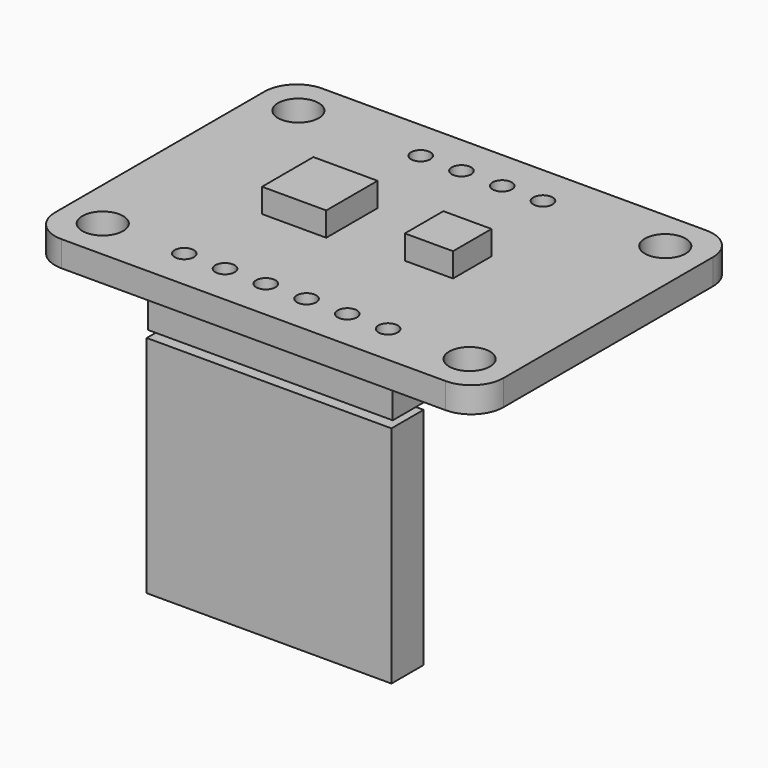
from build123d import *

# Parameters (mm, degrees)
PAD_DEPTH            = 1.6
SKETCH001_R          = 1.27
POCKET_DEPTH         = 0.001
POCKET_DEPTH_BACK    = 1.601
SKETCH005_R          = 0.6
POCKET003_DEPTH      = 1.601
POCKET003_DEPTH_BACK = -0.001
SKETCH006_W          = 4
SKETCH006_H          = 4
PAD002_DEPTH         = 1.5
SKETCH009_W          = 15.25
SKETCH009_H          = 2.5
PAD005_DEPTH         = 2.5
SKETCH010_W          = 13.25
SKETCH010_H          = 0.6
PAD006_DEPTH         = 8.5
SKETCH011_W          = 1.9
SKETCH011_H          = 15
POCKET004_DEPTH      = 0.301
POCKET004_DEPTH_BACK = -0.301
SKETCH012_W          = 15.25
SKETCH012_H          = 2.5
PAD007_DEPTH         = 14
SKETCH013_W          = 3
SKETCH013_H          = 3
PAD008_DEPTH         = 1.5


with BuildPart() as mainboard:
    # Sketch → Pad (new body)
    with BuildSketch(Plane.XY):
        with BuildLine():
            Line((-11.97, 10.16), (11.97, 10.16))
            ThreePointArc((13.97, 8.16), (13.384214, 9.574214), (11.97, 10.16))
            Line((13.97, 8.16), (13.97, -8.16))
            ThreePointArc((11.97, -10.16), (13.384214, -9.574214), (13.97, -8.16))
            Line((11.97, -10.16), (-11.97, -10.16))
            ThreePointArc((-13.97, -8.16), (-13.384214, -9.574214), (-11.97, -10.16))
            Line((-13.97, -8.16), (-13.97, 8.16))
            ThreePointArc((-11.97, 10.16), (-13.384214, 9.574214), (-13.97, 8.16))
        make_face()
    extrude(amount=-PAD_DEPTH)

    # Sketch001 → Pocket (cut, two sides)
    with BuildSketch(Plane.XY) as pocket_sk:
        with Locations((-11.43, 7.62)):
            Circle(SKETCH001_R)
        with Locations((11.43, 7.62)):
            Circle(SKETCH001_R)
        with Locations((11.43, -7.62)):
            Circle(SKETCH001_R)
        with Locations((-11.43, -7.62)):
            Circle(SKETCH001_R)
    extrude(amount=POCKET_DEPTH, mode=Mode.SUBTRACT)
    extrude(pocket_sk.sketch, amount=-POCKET_DEPTH_BACK, mode=Mode.SUBTRACT)

    # Sketch005 → Pocket003 (cut, two sides)
    with BuildSketch(Plane.XY) as pocket003_sk:
        with Locations((-3.81, 7.62)):
            Circle(SKETCH005_R)
        with Locations((-1.27, 7.62)):
            Circle(SKETCH005_R)
        with Locations((1.27, 7.62)):
            Circle(SKETCH005_R)
        with Locations((3.81, 7.62)):
            Circle(SKETCH005_R)
        with Locations((-6.35, -7.62)):
            Circle(SKETCH005_R)
        with Locations((-3.81, -7.62)):
            Circle(SKETCH005_R)
        with Locations((-1.27, -7.62)):
            Circle(SKETCH005_R)
        with Locations((1.27, -7.62)):
            Circle(SKETCH005_R)
        with Locations((3.81, -7.62)):
            Circle(SKETCH005_R)
        with Locations((6.35, -7.62)):
            Circle(SKETCH005_R)
    extrude(amount=-POCKET003_DEPTH, mode=Mode.SUBTRACT)
    extrude(pocket003_sk.sketch, amount=-POCKET003_DEPTH_BACK, mode=Mode.SUBTRACT)


with BuildPart() as chip1:
    # Sketch006 → Pad002 (new body)
    with BuildSketch(Plane.XY):
        with Locations((-4, 0)):
            Rectangle(SKETCH006_W, SKETCH006_H)
    extrude(amount=PAD002_DEPTH)


with BuildPart() as pinblock1:
    # Sketch009 → Pad005 (new body)
    with BuildSketch(Plane.XY):
        Rectangle(SKETCH009_W, SKETCH009_H)
    extrude(amount=-PAD005_DEPTH)


with BuildPart() as pinblock1_1:
    # Body005 placement: moved
    add(pinblock1.part.moved(Location((0, -7.6, -1.6))))


with BuildPart() as pins:
    # Sketch010 → Pad006 (new body)
    with BuildSketch(Plane.XY):
        Rectangle(SKETCH010_W, SKETCH010_H)
    extrude(amount=-PAD006_DEPTH)

    # Sketch011 → Pocket004 (cut, two sides)
    with BuildSketch(Plane.XZ) as pocket004_sk:
        with Locations((0, -8)):
            Rectangle(SKETCH011_W, SKETCH011_H)
        with Locations((-2.55, -8)):
            Rectangle(SKETCH011_W, SKETCH011_H)
        with Locations((-5.1, -8)):
            Rectangle(SKETCH011_W, SKETCH011_H)
        with Locations((2.55, -8)):
            Rectangle(SKETCH011_W, SKETCH011_H)
        with Locations((5.1, -8)):
            Rectangle(SKETCH011_W, SKETCH011_H)
    extrude(amount=-POCKET004_DEPTH, mode=Mode.SUBTRACT)
    extrude(pocket004_sk.sketch, amount=-POCKET004_DEPTH_BACK, mode=Mode.SUBTRACT)


with BuildPart() as pins_1:
    # Body006 placement: moved
    add(pins.part.moved(Location((0, -7.7, -1.6))))


with BuildPart() as pinblock2:
    # Sketch012 → Pad007 (new body)
    with BuildSketch(Plane.XY):
        Rectangle(SKETCH012_W, SKETCH012_H)
    extrude(amount=-PAD007_DEPTH)


with BuildPart() as pinblock2_1:
    # Body007 placement: moved
    add(pinblock2.part.moved(Location((0, -7.7, -4.5))))


with BuildPart() as chip2:
    # Sketch013 → Pad008 (new body)
    with BuildSketch(Plane.XY):
        with Locations((4, 0)):
            Rectangle(SKETCH013_W, SKETCH013_H)
    extrude(amount=PAD008_DEPTH)


solid = Compound([mainboard.part, chip1.part, pinblock1_1.part, pins_1.part, pinblock2_1.part, chip2.part])
